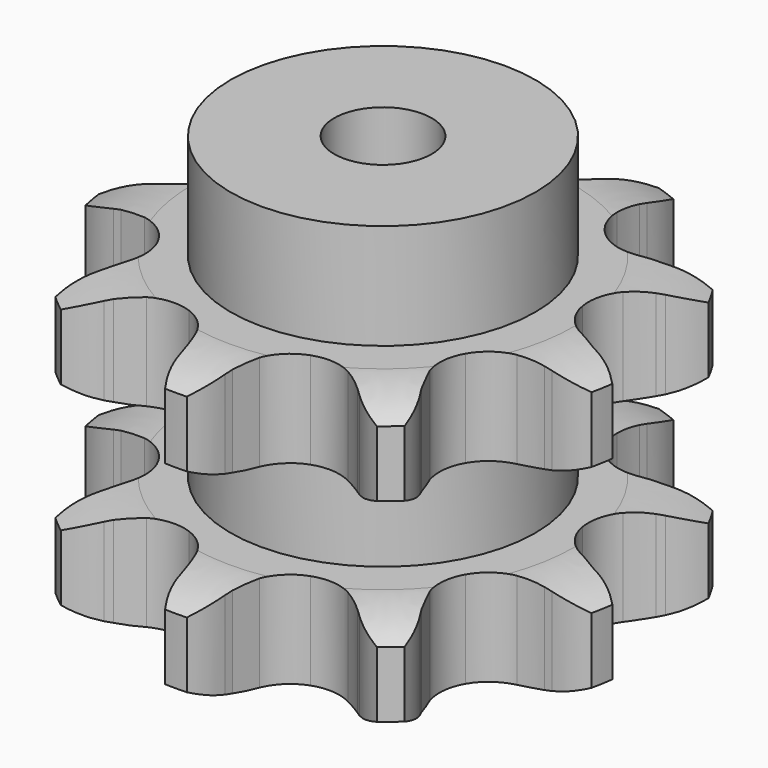
from build123d import *

# Parameters (mm, degrees)
PAD_DEPTH         = 47.7
SKETCH001_R       = 25
PAD001_DEPTH      = 65
SKETCH002_R       = 8
POCKET_DEPTH      = 0.0010001
POCKET_DEPTH_BACK = 65.001


with BuildPart() as part:
    # Sprocket → Pad (new body)
    with BuildSketch(Plane.XY):
        with BuildLine():
            ThreePointArc((-15.2597585535, 41.925842052), (-11.7324004597, 39.6043709331), (-9.0858919383, 36.3138579147))
            Line((-9.0858919383, 36.3138579147), (-8.4754573747, 35.2518031189))
            ThreePointArc((-8.4754573747, 35.2518031189), (-7.3211957622, 33.4630260162), (-5.9894976162, 31.8021155908))
            ThreePointArc((-5.9894976162, 31.8021155908), (-3.2824256994, 29.8172083389), (0, 29.1145158821))
            ThreePointArc((0, 29.1145158821), (3.2824256994, 29.8172083389), (5.9894976162, 31.8021155908))
            ThreePointArc((5.9894976162, 31.8021155908), (7.3211957622, 33.4630260162), (8.4754573747, 35.2518031189))
            Line((8.4754573747, 35.2518031189), (9.0858919383, 36.3138579147))
            ThreePointArc((9.0858919383, 36.3138579147), (11.7324004597, 39.6043709331), (15.2597585535, 41.925842052))
            ThreePointArc((15.2597585535, 41.925842052), (16.4696587486, 37.8801499239), (16.3819008973, 33.6583278247))
            Line((16.3819008973, 33.6583278247), (16.1668452391, 32.452366876))
            ThreePointArc((16.1668452391, 32.452366876), (15.9012571752, 30.3401390536), (15.8537844976, 28.2118087837))
            ThreePointArc((15.8537844976, 28.2118087837), (16.6516481087, 24.9512093266), (18.714450071, 22.3030131056))
            ThreePointArc((18.714450071, 22.3030131056), (21.6806160427, 20.7314041881), (25.0302272295, 20.5118590718))
            Line((25.0302272295, 20.5118590718), (29.1519992887, 21.5565289023))
            ThreePointArc((29.1519992887, 21.5565289023), (29.7240339852, 21.7756315426), (30.3022949576, 21.9777303028))
            ThreePointArc((30.3022949576, 21.9777303028), (34.4447391018, 22.7972666291), (38.6390650399, 22.3082746021))
            ThreePointArc((38.6390650399, 22.3082746021), (36.9653815886, 18.4313857744), (34.1844202386, 15.2536920749))
            Line((34.1844202386, 15.2536920749), (33.2445012911, 14.468107504))
            ThreePointArc((33.2445012911, 14.468107504), (31.6833351575, 13.0207638348), (30.2789046498, 11.4208831074))
            ThreePointArc((30.2789046498, 11.4208831074), (28.7942307043, 8.4102621686), (28.6722009659, 5.0556826266))
            ThreePointArc((28.6722009659, 5.0556826266), (29.9342051864, 1.9451456137), (32.3590353422, -0.3761242708))
            Line((32.3590353422, -0.3761242708), (36.1879967471, -2.2252847619))
            ThreePointArc((36.1879967471, -2.2252847619), (36.7670372102, -2.425139217), (37.3399173937, -2.642021573))
            ThreePointArc((37.3399173937, -2.642021573), (41.0400015075, -4.676932094), (43.9387235688, -7.7475824631))
            ThreePointArc((43.9387235688, -7.7475824631), (40.1645915588, -9.641628621), (35.9916694327, -10.2883157227))
            Line((35.9916694327, -10.2883157227), (34.7666857175, -10.2859401643))
            ThreePointArc((34.7666857175, -10.2859401643), (32.6404284986, -10.391171492), (30.5361888038, -10.7140007038))
            ThreePointArc((30.5361888038, -10.7140007038), (27.4636727411, -12.0659401277), (25.2139103728, -14.557257941))
            ThreePointArc((25.2139103728, -14.557257941), (24.1812470417, -17.7512682112), (24.5466911876, -21.0881148869))
            Line((24.5466911876, -21.0881148869), (26.2912283428, -24.9658629546))
            ThreePointArc((26.2912283428, -24.9658629546), (26.6063351044, -25.4911603845), (26.9057774944, -26.025542192))
            ThreePointArc((26.9057774944, -26.025542192), (28.4321910991, -29.962742312), (28.6789650154, -34.1782595889))
            ThreePointArc((28.6789650154, -34.1782595889), (24.570342759, -33.2032178299), (20.9580164964, -31.0163062517))
            Line((20.9580164964, -31.0163062517), (20.021151508, -30.2270821142))
            ThreePointArc((20.021151508, -30.2270821142), (18.3247025872, -28.9409621927), (16.5052508446, -27.8356845129))
            ThreePointArc((16.5052508446, -27.8356845129), (13.2825570777, -26.8963549404), (9.9577508948, -27.3586957321))
            ThreePointArc((9.9577508948, -27.3586957321), (7.1136146616, -29.1416663567), (5.2486774203, -31.9327421792))
            Line((5.2486774203, -31.9327421792), (4.0925020024, -36.0246364062))
            ThreePointArc((4.0925020024, -36.0246364062), (3.9962331068, -36.6295843055), (3.882125281, -37.2314223777))
            ThreePointArc((3.882125281, -37.2314223777), (2.5206424867, -41.2286524035), (0, -44.6165492041))
            ThreePointArc((0, -44.6165492041), (-2.5206424867, -41.2286524035), (-3.882125281, -37.2314223777))
            Line((-3.882125281, -37.2314223777), (-4.0925020024, -36.0246364062))
            ThreePointArc((-4.0925020024, -36.0246364062), (-4.5653553211, -33.9489550405), (-5.2486774203, -31.9327421792))
            ThreePointArc((-5.2486774203, -31.9327421792), (-7.1136146616, -29.1416663567), (-9.9577508948, -27.3586957321))
            ThreePointArc((-9.9577508948, -27.3586957321), (-13.2825570777, -26.8963549404), (-16.5052508446, -27.8356845129))
            Line((-16.5052508446, -27.8356845129), (-20.021151508, -30.2270821142))
            ThreePointArc((-20.021151508, -30.2270821142), (-20.4837507747, -30.6286186374), (-20.9580164964, -31.0163062517))
            ThreePointArc((-20.9580164964, -31.0163062517), (-24.570342759, -33.2032178299), (-28.6789650154, -34.1782595889))
            ThreePointArc((-28.6789650154, -34.1782595889), (-28.4321910991, -29.962742312), (-26.9057774944, -26.025542192))
            Line((-26.9057774944, -26.025542192), (-26.2912283428, -24.9658629546))
            ThreePointArc((-26.2912283428, -24.9658629546), (-25.3192327364, -23.0718545242), (-24.5466911876, -21.0881148869))
            ThreePointArc((-24.5466911876, -21.0881148869), (-24.1812470417, -17.7512682112), (-25.2139103728, -14.557257941))
            ThreePointArc((-25.2139103728, -14.557257941), (-27.4636727411, -12.0659401277), (-30.5361888038, -10.7140007038))
            Line((-30.5361888038, -10.7140007038), (-34.7666857175, -10.2859401643))
            ThreePointArc((-34.7666857175, -10.2859401643), (-35.3791600171, -10.2961819097), (-35.9916694327, -10.2883157227))
            ThreePointArc((-35.9916694327, -10.2883157227), (-40.1645915588, -9.641628621), (-43.9387235688, -7.7475824631))
            ThreePointArc((-43.9387235688, -7.7475824631), (-41.0400015075, -4.676932094), (-37.3399173937, -2.642021573))
            Line((-37.3399173937, -2.642021573), (-36.1879967471, -2.2252847619))
            ThreePointArc((-36.1879967471, -2.2252847619), (-34.2259597624, -1.399176861), (-32.3590353422, -0.3761242708))
            ThreePointArc((-32.3590353422, -0.3761242708), (-29.9342051864, 1.9451456137), (-28.6722009659, 5.0556826266))
            ThreePointArc((-28.6722009659, 5.0556826266), (-28.7942307043, 8.4102621686), (-30.2789046498, 11.4208831074))
            Line((-30.2789046498, 11.4208831074), (-33.2445012911, 14.468107504))
            ThreePointArc((-33.2445012911, 14.468107504), (-33.720267092, 14.8539527628), (-34.1844202386, 15.2536920749))
            ThreePointArc((-34.1844202386, 15.2536920749), (-36.9653815886, 18.4313857744), (-38.6390650399, 22.3082746021))
            ThreePointArc((-38.6390650399, 22.3082746021), (-34.4447391018, 22.7972666291), (-30.3022949576, 21.9777303028))
            Line((-30.3022949576, 21.9777303028), (-29.1519992887, 21.5565289023))
            ThreePointArc((-29.1519992887, 21.5565289023), (-27.1179798364, 20.9281912056), (-25.0302272295, 20.5118590718))
            ThreePointArc((-25.0302272295, 20.5118590718), (-21.6806160427, 20.7314041881), (-18.714450071, 22.3030131056))
            ThreePointArc((-18.714450071, 22.3030131056), (-16.6516481087, 24.9512093266), (-15.8537844976, 28.2118087837))
            Line((-15.8537844976, 28.2118087837), (-16.1668452391, 32.452366876))
            ThreePointArc((-16.1668452391, 32.452366876), (-16.2832864355, 33.0537578544), (-16.3819008973, 33.6583278247))
            ThreePointArc((-16.3819008973, 33.6583278247), (-16.4696587486, 37.8801499239), (-15.2597585535, 41.925842052))
        make_face()
    extrude(amount=PAD_DEPTH)

    # Sketch → Groove (revolve, cut)
    with BuildSketch(Plane.XZ):
        with BuildLine():
            ThreePointArc((31.3757022694, 0), (37.0765793949, 0.6326982121), (42.5, 2.5))
            Line((42.5, 2.5), (42.5, 13.3))
            ThreePointArc((42.5, 13.3), (37.0765793949, 15.1673017879), (31.3757022694, 15.8))
            Line((25, 15.8), (31.3757022694, 15.8))
            Line((25, 31.9), (25, 15.8))
            Line((31.3757022694, 31.9), (25, 31.9))
            ThreePointArc((31.3757022694, 31.9), (37.0765793949, 32.5326982121), (42.5, 34.4))
            Line((42.5, 34.4), (42.5, 45.2))
            ThreePointArc((42.5, 45.2), (37.0765793949, 47.0673017879), (31.3757022694, 47.7))
            Line((31.3757022694, 47.7), (52.5, 47.7))
            Line((52.5, 47.7), (52.5, 0))
            Line((31.3757022694, 0), (52.5, 0))
        make_face()
    revolve(axis=Axis((0, 0, 0), (0, 0, 1)), mode=Mode.SUBTRACT)

    # Sketch001 → Pad001 (join)
    with BuildSketch(Plane.XY):
        Circle(SKETCH001_R)
    extrude(amount=PAD001_DEPTH)

    # Sketch002 → Pocket (cut, two sides)
    with BuildSketch(Plane.XY) as pocket_sk:
        Circle(SKETCH002_R)
    extrude(amount=-POCKET_DEPTH, mode=Mode.SUBTRACT)
    extrude(pocket_sk.sketch, amount=POCKET_DEPTH_BACK, mode=Mode.SUBTRACT)


solid = part.part
